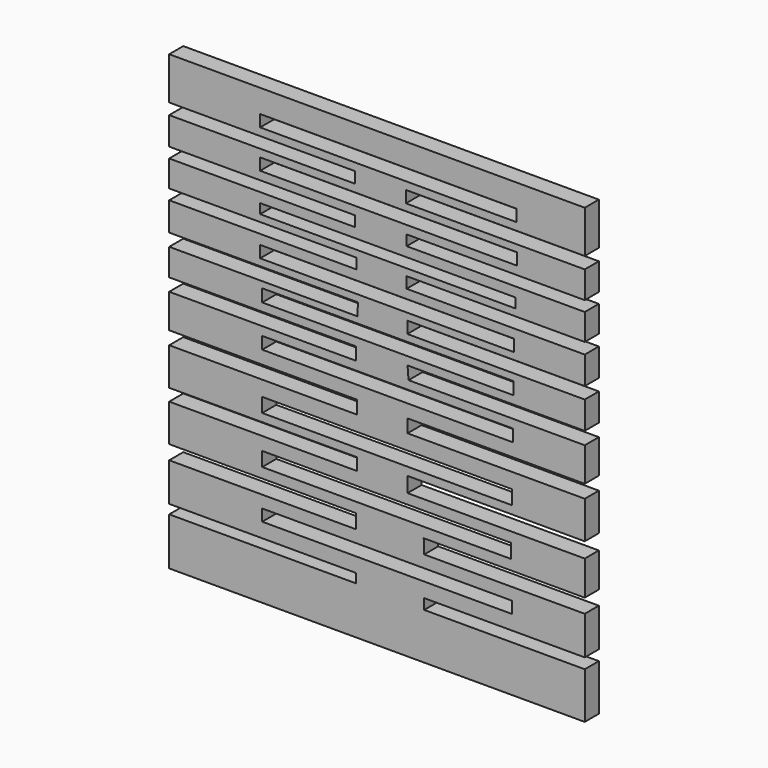
from build123d import *

# Parameters (mm, degrees)
F0_W     = 71.032305
F0_H     = 3.316156
F0_W_2   = 70.65738
F0_H_2   = 4.029283
F0_W_3   = 70.945185
F0_H_3   = 4.029279
F0_W_4   = 71.23299
F0_H_4   = 3.453669
F0_W_5   = 71.426928
F0_H_5   = 3.551615
F0_W_6   = 72.216179
F0_H_6   = 3.354305
F0_W_7   = 72.610803
F0_H_7   = 2.762366
F0_W_8   = 73.005423
F0_H_8   = 3.354303
F0_W_9   = 72.808113
F0_H_9   = 3.354299
F1_DEPTH = 5


with BuildPart() as f1:
    # F0 (on Front) → F1 (new body)
    with BuildSketch(Plane.XZ):
        Polygon((56.841634, 59.431892), (-61.265364, 59.431892), (-61.265364, 47.354873), (-8.385758, 47.354873), (-8.385758, 44.197883), (-61.265364, 44.197883), (-61.265364, 36.305401), (-8.385758, 36.305401), (-8.385758, 33.345722), (-61.265364, 33.345722), (-61.265364, 25.847867), (-7.991134, 25.847867), (-7.991134, 22.888189), (-61.265364, 22.888189), (-61.265364, 14.798397), (-7.596511, 14.798397), (-7.793822, 11.246782), (-61.265364, 11.246782), (-61.265364, 3.597572), (-8.202464, 3.597572), (-8.202464, 0), (-61.265364, 0), (-61.265364, -9.641493), (-7.914659, -9.641493), (-7.914659, -13.382968), (-61.265364, -13.382968), (-61.265364, -24.031783), (-7.914659, -24.031783), (-7.914659, -27.485449), (-61.265364, -27.485449), (-61.265364, -38.134262), (-8.202464, -38.134262), (-8.202464, -42.163543), (-61.265364, -42.163543), (-61.265364, -53.076919), (-8.202464, -53.076919), (-8.202464, -55.690415), (-61.265364, -55.690415), (-61.265364, -69.217287), (56.841634, -69.217287), (56.841634, -56.036595), (11.206436, -56.036595), (11.206436, -53.076919), (56.841634, -53.076919), (56.841634, -42.163543), (11.206436, -42.163543), (11.080521, -38.134262), (56.841634, -38.134262), (56.841634, -28.348867), (6.475631, -28.348867), (6.475631, -24.031783), (56.841634, -24.031783), (56.841634, -13.382968), (6.475631, -13.382968), (6.475631, -9.641493), (56.841634, -9.641493), (56.841634, 0), (6.763437, 0), (6.475631, 3.597572), (56.841634, 3.597572), (56.841634, 11.444095), (6.412639, 11.444095), (6.412639, 14.798397), (56.841634, 14.798397), (56.841634, 22.690875), (6.215328, 22.690875), (6.215328, 25.847867), (56.841634, 25.847867), (56.841634, 33.345722), (6.215328, 33.345722), (6.215328, 36.305401), (56.841634, 36.305401), (56.841634, 44.000566), (6.018014, 44.000566), (6.018014, 47.354873), (56.841634, 47.354873), align=None)
        with Locations((0.690593, -47.27529)):
            Rectangle(F0_W, F0_H, mode=Mode.SUBTRACT)
        with Locations((0.50313, -33.241566)):
            Rectangle(F0_W_2, F0_H_2, mode=Mode.SUBTRACT)
        with Locations((0.647033, -19.714693)):
            Rectangle(F0_W_3, F0_H_3, mode=Mode.SUBTRACT)
        with Locations((0.790935, -4.173183)):
            Rectangle(F0_W_4, F0_H_4, mode=Mode.SUBTRACT)
        with Locations((0.887904, 7.695167)):
            Rectangle(F0_W_5, F0_H_5, mode=Mode.SUBTRACT)
        with Locations((0.690593, 18.448668)):
            Rectangle(F0_W_6, F0_H_6, mode=Mode.SUBTRACT)
        with Locations((0.887905, 29.202171)):
            Rectangle(F0_W_7, F0_H_7, mode=Mode.SUBTRACT)
        with Locations((1.085214, 40.350296)):
            Rectangle(F0_W_8, F0_H_8, mode=Mode.SUBTRACT)
        with Locations((0.98656, 51.202455)):
            Rectangle(F0_W_9, F0_H_9, mode=Mode.SUBTRACT)
    extrude(amount=F1_DEPTH)


solid = f1.part
